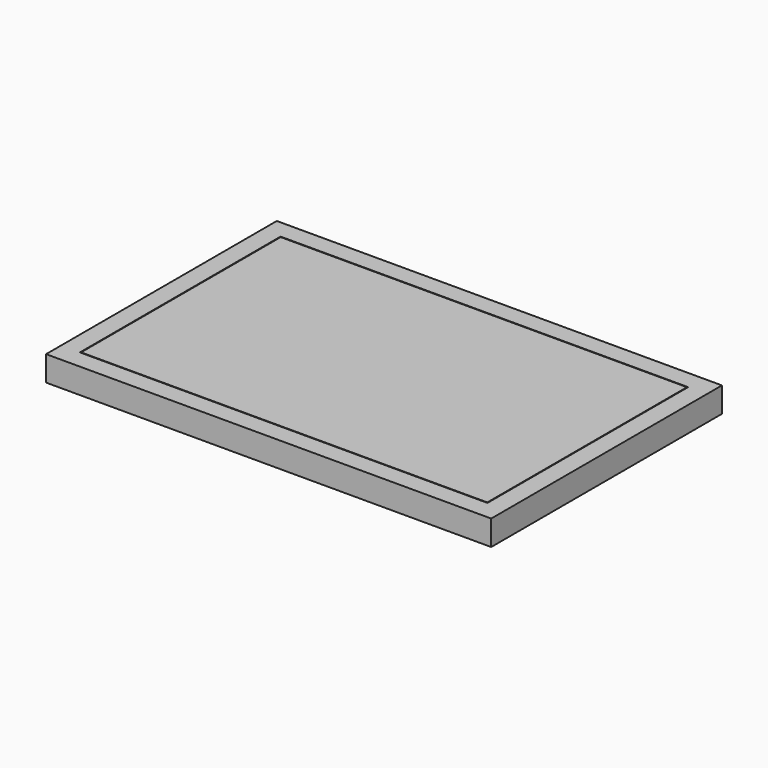
from build123d import *

# Parameters (mm, degrees)
F0_W     = 64.8
F0_H     = 39.8
F1_DEPTH = 2
F0_W_2   = 71
F0_H_2   = 46
F0_W_3   = 65
F0_H_3   = 40
F2_DEPTH = 2
F3_DEPTH = 2


with BuildPart() as f1:
    # F0 (on Top) → F1 (new body)
    with BuildSketch(Plane.XY):
        Rectangle(F0_W, F0_H)
    extrude(amount=F1_DEPTH)


with BuildPart() as f2:
    # F0 (on Top) → F2 (new body)
    with BuildSketch(Plane.XY):
        Rectangle(F0_W_2, F0_H_2)
        Rectangle(F0_W_3, F0_H_3, mode=Mode.SUBTRACT)
        Rectangle(F0_W_3, F0_H_3)
        Rectangle(F0_W, F0_H, mode=Mode.SUBTRACT)
        Rectangle(F0_W, F0_H)
    extrude(amount=-F2_DEPTH)

    # F0 (on Top) → F3 (join)
    with BuildSketch(Plane.XY):
        Rectangle(F0_W_2, F0_H_2)
        Rectangle(F0_W_3, F0_H_3, mode=Mode.SUBTRACT)
    extrude(amount=F3_DEPTH)


solid = Compound([f1.part, f2.part])
